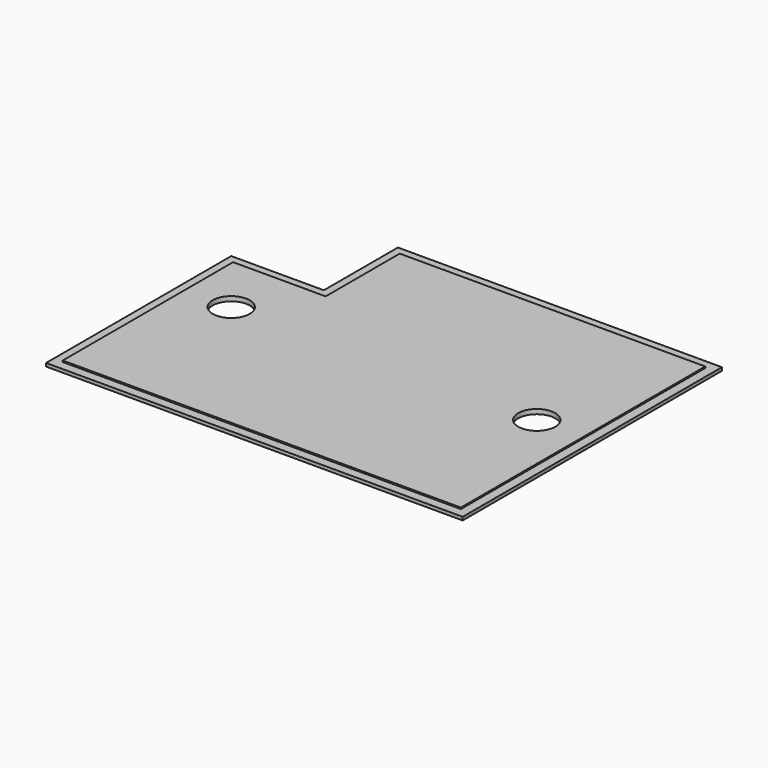
from build123d import *

# Parameters (mm, degrees)
F0_R     = 20
F1_DEPTH = 5
F2_DEPTH = 3.5


with BuildPart() as f1:
    # F0 (on Top) → F1 (new body)
    with BuildSketch(Plane.XY):
        Polygon((9.999996, 9.999996), (440.000004, 9.999996), (440.000004, 340.000004), (109.999996, 340.000004), (109.999996, 240.000004), (9.999996, 240.000004), align=None)
        with Locations((60, 175)):
            Circle(F0_R, mode=Mode.SUBTRACT)
        with Locations((390, 175)):
            Circle(F0_R, mode=Mode.SUBTRACT)
    extrude(amount=F1_DEPTH)

    # F0 (on Top) → F2 (join)
    with BuildSketch(Plane.XY):
        Polygon((0, 250), (0, 0), (450, 0), (450, 350), (100, 350), (100, 250), align=None)
        Polygon((440.000004, 340.000004), (440.000004, 9.999996), (9.999996, 9.999996), (9.999996, 240.000004), (109.999996, 240.000004), (109.999996, 340.000004), align=None, mode=Mode.SUBTRACT)
    extrude(amount=F2_DEPTH)


solid = f1.part
